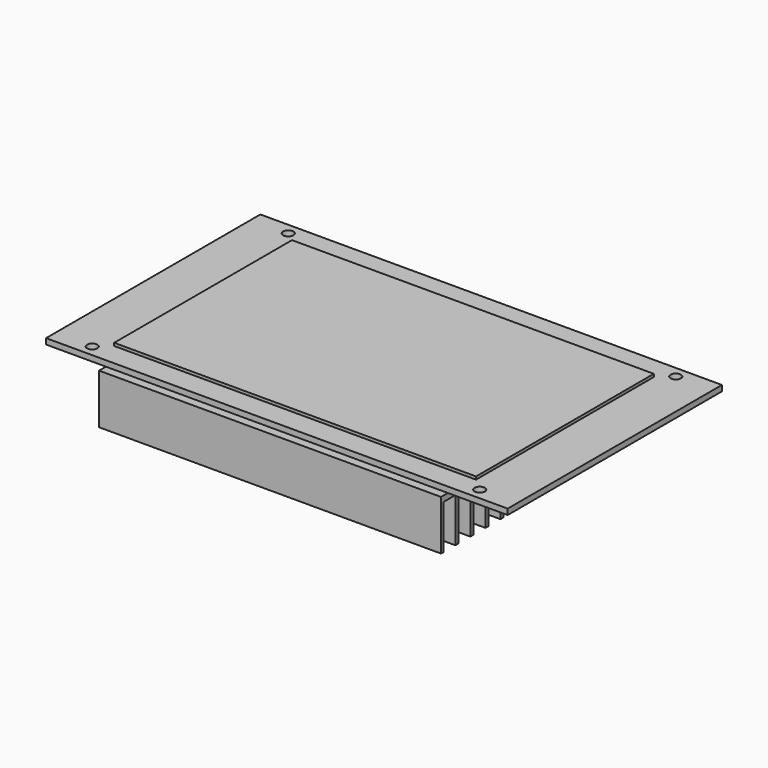
from build123d import *

# Parameters (mm, degrees)
F0_W     = 162
F0_H     = 94
F0_R     = 1.8
F0_W_2   = 127
F0_H_2   = 78
F1_DEPTH = 2
F2_DEPTH = 1
F3_W     = 120
F3_H     = 100
F4_DEPTH = 17.5
F5_W     = 5.3
F5_H     = 15.5
F6_DEPTH = 141.001


with BuildPart() as f1:
    # F0 (on Top) → F1 (new body)
    with BuildSketch(Plane.XY):
        with Locations((81, 47)):
            Rectangle(F0_W, F0_H)
        with Locations((13, 4)):
            Circle(F0_R, mode=Mode.SUBTRACT)
        with Locations((149, 4)):
            Circle(F0_R, mode=Mode.SUBTRACT)
        with Locations((13, 90)):
            Circle(F0_R, mode=Mode.SUBTRACT)
        with Locations((81, 47)):
            Rectangle(F0_W_2, F0_H_2, mode=Mode.SUBTRACT)
        with Locations((149, 90)):
            Circle(F0_R, mode=Mode.SUBTRACT)
        with Locations((81, 47)):
            Rectangle(F0_W_2, F0_H_2)
    extrude(amount=-F1_DEPTH)


with BuildPart() as f2:
    # F0 (on Top) → F2 (new body)
    with BuildSketch(Plane.XY):
        with Locations((81, 47)):
            Rectangle(F0_W_2, F0_H_2)
    extrude(amount=F2_DEPTH)


with BuildPart() as f4:
    # F3 (on face) → F4 (new body)
    with BuildSketch(Plane(origin=(0, 0, -2), x_dir=(1, 0, 0), z_dir=(0, 0, -1))):
        with Locations((81, -47)):
            Rectangle(F3_W, F3_H)
    extrude(amount=F4_DEPTH)

    # F5 (on face) → F6 (cut, through all)
    with BuildSketch(Plane(origin=(21, 0, 0), x_dir=(0, -1, 0), z_dir=(-1, 0, 0))):
        with Locations((-93.05, -11.75)):
            Rectangle(F5_W, F5_H)
        with Locations((-86.45, -11.75)):
            Rectangle(F5_W, F5_H)
        with Locations((-79.85, -11.75)):
            Rectangle(F5_W, F5_H)
        with Locations((-73.25, -11.75)):
            Rectangle(F5_W, F5_H)
        with Locations((-66.65, -11.75)):
            Rectangle(F5_W, F5_H)
        with Locations((-60.05, -11.75)):
            Rectangle(F5_W, F5_H)
        with Locations((-53.45, -11.75)):
            Rectangle(F5_W, F5_H)
        with Locations((-46.85, -11.75)):
            Rectangle(F5_W, F5_H)
        with Locations((-40.25, -11.75)):
            Rectangle(F5_W, F5_H)
        with Locations((-33.65, -11.75)):
            Rectangle(F5_W, F5_H)
        with Locations((-27.05, -11.75)):
            Rectangle(F5_W, F5_H)
        with Locations((-20.45, -11.75)):
            Rectangle(F5_W, F5_H)
        with Locations((-13.85, -11.75)):
            Rectangle(F5_W, F5_H)
        with Locations((-7.25, -11.75)):
            Rectangle(F5_W, F5_H)
        with Locations((-0.65, -11.75)):
            Rectangle(F5_W, F5_H)
    extrude(amount=-F6_DEPTH, mode=Mode.SUBTRACT)


solid = Compound([f1.part, f2.part, f4.part])
